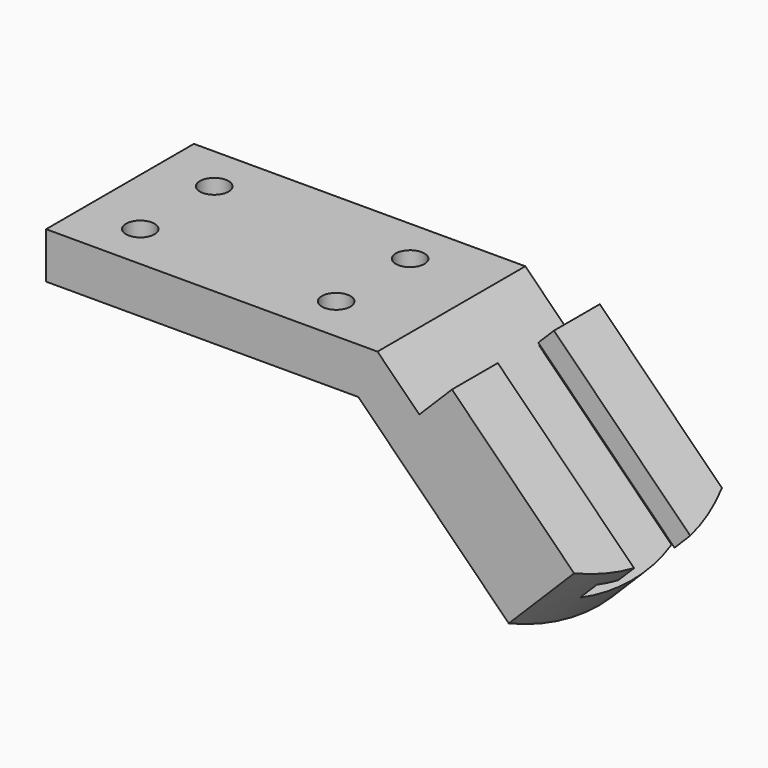
from build123d import *

# Parameters (mm, degrees)
F1_DEPTH       = 50.8
F3_DEPTH       = 134.531275
F5_DEPTH       = 25.4
F7_D           = 7.874
F7_DEPTH       = 50.8
F7_CBORE_D     = 12.7
F7_CBORE_DEPTH = 6.096


with BuildPart() as f1:
    # F0 (on Front) → F1 (new body)
    with BuildSketch(Plane.XZ):
        Polygon((0, 12.7), (0, 0), (85.852, 0), (131.70327, -45.85127), (149.663782, -27.890758), (111.587496, 10.185528), (102.60724, 1.205272), (91.112512, 12.7), align=None)
    extrude(amount=F1_DEPTH)

    # F2 (on face) → F3 (cut, through all)
    with BuildSketch(Plane(origin=(88.77727, 0, -88.77727), x_dir=(0, 1, 0), z_dir=(0.707107, 0, -0.707107))):
        Polygon((-15.748, 86.106531), (-35.052, 86.106531), (-35.052, 80.010531), (-41.148, 80.010531), (-41.148, 73.406531), (-9.652, 73.406531), (-9.652, 80.010531), (-15.748, 80.010531), align=None)
    extrude(amount=-F3_DEPTH, mode=Mode.SUBTRACT)

    # F4 (on face) → F5 (cut)
    with BuildSketch(Plane(origin=(60.886512, 0, 60.886512), x_dir=(0.707107, 0, -0.707107), z_dir=(0.707107, 0, 0.707107))):
        with BuildLine():
            Line((125.550019, 0), (119.183037, 0))
            ThreePointArc((119.183037, 0), (123.934026, -12.307078), (125.550019, -25.4))
            Line((125.550019, -25.4), (125.550019, 0))
        make_face()
        with BuildLine():
            Line((125.550019, -50.8), (125.550019, -25.4))
            ThreePointArc((125.550019, -25.4), (123.934026, -38.492922), (119.183037, -50.8))
            Line((119.183037, -50.8), (125.550019, -50.8))
        make_face()
        with BuildLine():
            Line((125.550019, 0), (119.183037, 0))
            ThreePointArc((119.183037, 0), (123.934026, -12.307078), (125.550019, -25.4))
            Line((125.550019, -25.4), (125.550019, 0))
        make_face()
    extrude(amount=-F5_DEPTH, mode=Mode.SUBTRACT)

    # F7
    with Locations(Plane(origin=(0, 0, 0), x_dir=(1, 0, 0), z_dir=(0, 0, -1))):
        with Locations((15.748, 38.1), (15.748, 12.7), (69.596, 12.7), (69.596, 38.1)):
            CounterBoreHole(F7_D / 2, F7_CBORE_D / 2, F7_CBORE_DEPTH, depth=F7_DEPTH)


solid = f1.part
